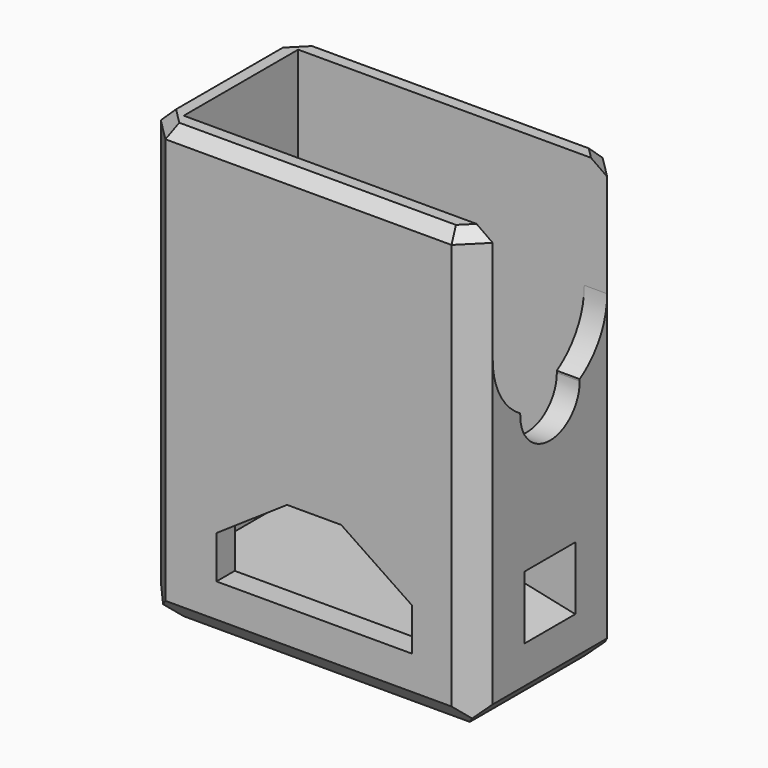
from build123d import *

# Parameters (mm, degrees)
F0_W      = 29
F0_H      = 16.5
F1_DEPTH  = 38.5
F2_T      = -2
F3_DEPTH  = 2.25
F4_SIZE   = 2
F5_SIZE   = 2
F6_SIZE   = 1
F8_DEPTH  = 16.501
F10_DEPTH = 2
F11_R     = 2
F12_DEPTH = 2.001
F13_W     = 7.54
F13_H     = 7.25
F13_R     = 1.1
F14_DEPTH = 4.35
F15_W     = 5.538
F15_H     = 5.533
F17_W     = 5.538
F17_H     = 4.583


with BuildPart() as f1:
    # F0 (on Top) → F1 (new body)
    with BuildSketch(Plane.XY):
        with Locations((14.5, 8.25)):
            Rectangle(F0_W, F0_H)
    extrude(amount=F1_DEPTH)

    # F2
    f2_openings = [f1.faces().sort_by_distance(p)[0] for p in [
        (14.5, 8.25, 38.5),
    ]]
    offset(amount=F2_T, openings=f2_openings)

    # F3 (add): a face of the model
    f3_faces = [f1.faces().sort_by_distance(p)[0] for p in [
        (14.5, 8.25, 2),
    ]]
    extrude(f3_faces, amount=F3_DEPTH)

    # F4
    f4_edges = [f1.edges().sort_by_distance(p)[0] for p in [
        (29, 16.5, 19.25),
        (0, 16.5, 19.25),
        (0, 0, 19.25),
        (29, 0, 19.25),
    ]]
    chamfer(f4_edges, length=F4_SIZE)

    # F5 (call 1 of 4: OpenCascade refuses the feature's edges together)
    f5_edges = [f1.edges().sort_by_distance(p)[0] for p in [
        (0, 8.25, 0),
    ]]
    chamfer(f5_edges, length=F5_SIZE)

    # F5#2 (call 2 of 4)
    f5_2_edges = [f1.edges().sort_by_distance(p)[0] for p in [
        (14.5, 0, 0),
    ]]
    chamfer(f5_2_edges, length=F5_SIZE)

    # F5#3 (call 3 of 4)
    f5_3_edges = [f1.edges().sort_by_distance(p)[0] for p in [
        (29, 8.25, 0),
    ]]
    chamfer(f5_3_edges, length=F5_SIZE)

    # F5#4 (call 4 of 4)
    f5_4_edges = [f1.edges().sort_by_distance(p)[0] for p in [
        (14.5, 16.5, 0),
    ]]
    chamfer(f5_4_edges, length=F5_SIZE)

    # F6
    f6_edges = [f1.edges().sort_by_distance(p)[0] for p in [
        (14.5, 16.5, 38.5),
        (29, 8.25, 38.5),
        (14.5, 0, 38.5),
        (0, 8.25, 38.5),
        (1, 15.5, 38.5),
        (28, 15.5, 38.5),
        (28, 1, 38.5),
        (1, 1, 38.5),
    ]]
    chamfer(f6_edges, length=F6_SIZE)

    # F7 (on face) → F8 (cut, through all)
    with BuildSketch(Plane.XZ):
        Polygon((17.36, 12.834), (12.631, 12.834), (6.46, 8.664), (6.46, 4.94), (23.536, 4.94), (23.536, 8.664), align=None)
    extrude(amount=-F8_DEPTH, mode=Mode.SUBTRACT)

    # F9 (on face) → F10 (cut, through all)
    with BuildSketch(Plane.YZ.offset(29)):
        with BuildLine():
            ThreePointArc((5.0038961688, 23.1590909091), (8.1704306945, 19.7509741882), (11.5, 23))
            ThreePointArc((11.5, 23), (11.4990258118, 23.0795693055), (11.4961038312, 23.1590909091))
            ThreePointArc((11.4961038312, 23.1590909091), (8.25, 22.25), (5.0038961688, 23.1590909091))
        make_face()
        with BuildLine():
            ThreePointArc((5.0038961688, 23.1590909091), (8.25, 22.25), (11.4961038312, 23.1590909091))
            ThreePointArc((11.4961038312, 23.1590909091), (8.25, 26.25), (5.0038961688, 23.1590909091))
        make_face()
        with BuildLine():
            ThreePointArc((5.0038961688, 23.1590909091), (8.25, 26.25), (11.4961038312, 23.1590909091))
            ThreePointArc((11.4961038312, 23.1590909091), (13.6975062618, 25.4361502113), (14.5, 28.5))
            Line((14.5, 28.5), (2, 28.5))
            ThreePointArc((2, 28.5), (2.8024937382, 25.4361502113), (5.0038961688, 23.1590909091))
        make_face()
        with BuildLine():
            Line((2, 28.5), (14.5, 28.5))
            ThreePointArc((14.5, 28.5), (8.25, 34.75), (2, 28.5))
        make_face()
        with BuildLine():
            ThreePointArc((2, 28.5), (8.25, 34.75), (14.5, 28.5))
            Line((14.5, 28.5), (14.5, 38.5))
            Line((14.5, 38.5), (2, 38.5))
            Line((2, 38.5), (2, 28.5))
        make_face()
    extrude(amount=-F10_DEPTH, mode=Mode.SUBTRACT)

    # F11 (on face) → F12 (cut, through all)
    with BuildSketch(Plane.YZ.offset(2)):
        with Locations((8.25, 23)):
            Circle(F11_R)
    extrude(amount=-F12_DEPTH, mode=Mode.SUBTRACT)

    # F13 (on face) → F14 (join)
    with BuildSketch(Plane(origin=(27, 0, 0), x_dir=(0, -1, 0), z_dir=(-1, 0, 0))):
        with Locations((-8.25, 7.875)):
            Rectangle(F13_W, F13_H)
        with Locations((-8.25, 9)):
            Circle(F13_R, mode=Mode.SUBTRACT)
    extrude(amount=F14_DEPTH)

    # F15 (on face) → F18 section 0
    with BuildSketch(Plane.YZ.offset(29)):
        with Locations((8.25, 8.0385)):
            Rectangle(F15_W, F15_H)
    # F17 (on offset) → F18 section 1
    with BuildSketch(Plane.YZ.offset(24.55)):
        with Locations((8.25, 8.5135)):
            Rectangle(F17_W, F17_H)
    loft(mode=Mode.SUBTRACT)


solid = f1.part
